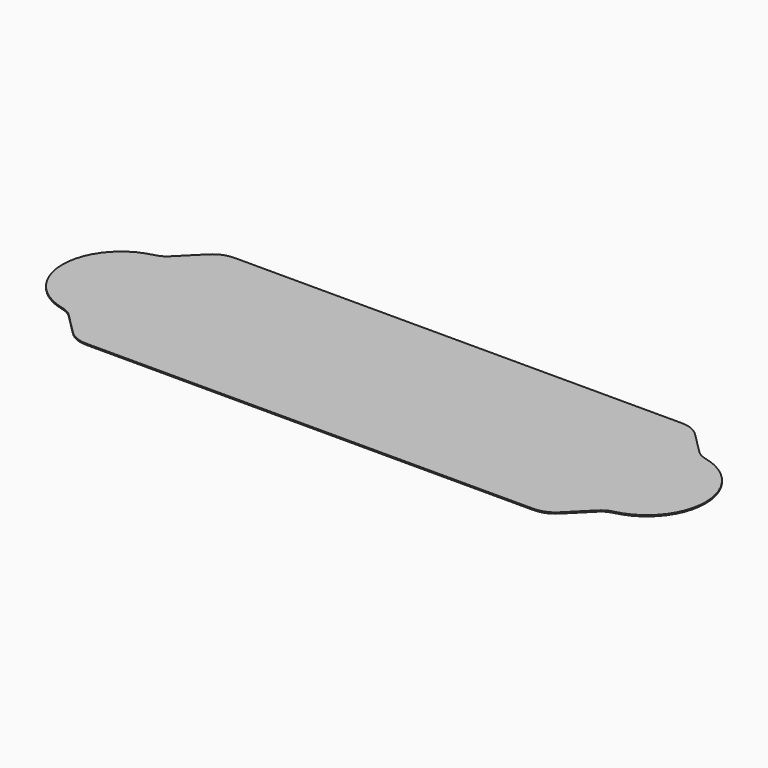
from build123d import *

# Parameters (mm, degrees)
F1_DEPTH = 0.3


with BuildPart() as f1:
    # F0 (on Top) → F1 (new body)
    with BuildSketch(Plane.XY):
        with BuildLine():
            ThreePointArc((54.857823, -22.754708), (57.499969, -22.229152), (59.739872, -20.732497))
            Line((59.739872, -20.732497), (64.91162, -15.560749))
            ThreePointArc((64.91162, -15.560749), (66.171936, -14.614336), (67.646171, -14.056907))
            ThreePointArc((67.646171, -14.056907), (78.904219, -0.000448), (67.646171, 14.056011))
            ThreePointArc((67.646171, 14.056011), (66.171936, 14.61344), (64.91162, 15.559853))
            Line((64.91162, 15.559853), (59.739872, 20.731601))
            ThreePointArc((59.739872, 20.731601), (57.499969, 22.228257), (54.857823, 22.753812))
            Line((54.857823, 22.753812), (-54.857823, 22.753812))
            ThreePointArc((-54.857823, 22.753812), (-57.499969, 22.228257), (-59.739872, 20.731601))
            Line((-59.739872, 20.731601), (-64.91162, 15.559853))
            ThreePointArc((-64.91162, 15.559853), (-66.171936, 14.61344), (-67.646171, 14.056011))
            ThreePointArc((-67.646171, 14.056011), (-78.904219, -0.000448), (-67.646171, -14.056907))
            ThreePointArc((-67.646171, -14.056907), (-66.171936, -14.614336), (-64.91162, -15.560749))
            Line((-64.91162, -15.560749), (-59.739872, -20.732497))
            ThreePointArc((-59.739872, -20.732497), (-57.499969, -22.229152), (-54.857823, -22.754708))
            Line((-54.857823, -22.754708), (54.857823, -22.754708))
        make_face()
    extrude(amount=F1_DEPTH)


solid = f1.part
